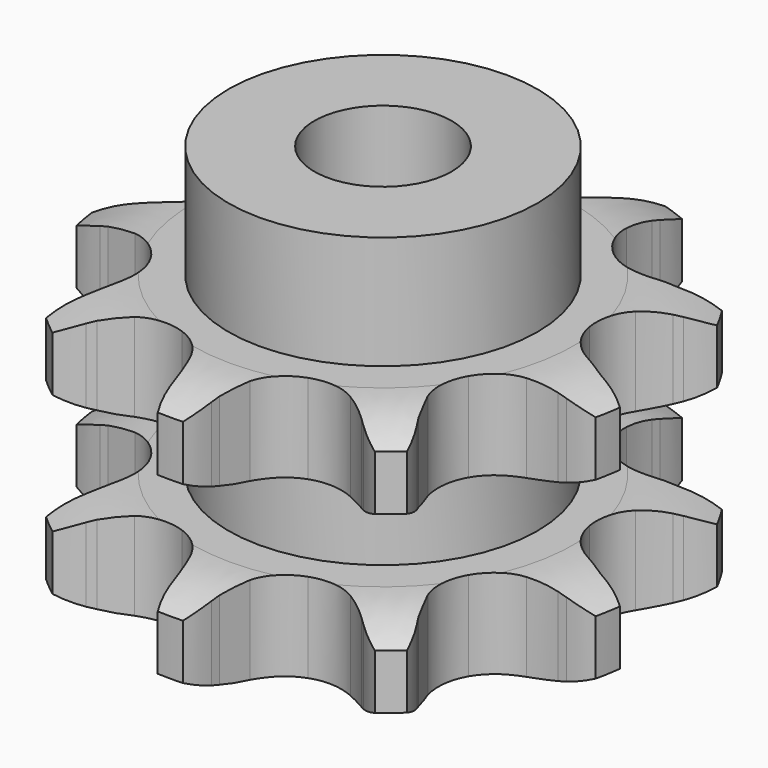
from build123d import *

# Parameters (mm, degrees)
PAD_DEPTH         = 15.4
SKETCH001_R       = 9
PAD001_DEPTH      = 22
SKETCH002_R       = 4
POCKET_DEPTH      = 0.001
POCKET_DEPTH_BACK = -22.001


with BuildPart() as part:
    # Sprocket → Pad (new body)
    with BuildSketch(Plane.XY):
        with BuildLine():
            ThreePointArc((-5.677804, 15.599638), (-4.530468, 14.728486), (-3.653036, 13.585944))
            Line((-3.653036, 13.585944), (-3.408939, 13.161256))
            ThreePointArc((-3.408939, 13.161256), (-2.946106, 12.443997), (-2.412125, 11.778009))
            ThreePointArc((-2.412125, 11.778009), (-1.321918, 10.978636), (0, 10.695643))
            ThreePointArc((0, 10.695643), (1.321918, 10.978636), (2.412125, 11.778009))
            ThreePointArc((2.412125, 11.778009), (2.946106, 12.443997), (3.408939, 13.161256))
            Line((3.408939, 13.161256), (3.653036, 13.585944))
            ThreePointArc((3.653036, 13.585944), (4.530468, 14.728486), (5.677804, 15.599638))
            ThreePointArc((5.677804, 15.599638), (5.996748, 14.194803), (5.934489, 12.755564))
            Line((5.934489, 12.755564), (5.848494, 12.273331))
            ThreePointArc((5.848494, 12.273331), (5.741999, 11.426375), (5.722963, 10.572963))
            ThreePointArc((5.722963, 10.572963), (6.044283, 9.259835), (6.875027, 8.193338))
            ThreePointArc((6.875027, 8.193338), (8.069579, 7.560411), (9.418554, 7.471994))
            Line((9.418554, 7.471994), (11.071291, 7.890883))
            ThreePointArc((11.071291, 7.890883), (11.300037, 7.978487), (11.531265, 8.059311))
            ThreePointArc((11.531265, 8.059311), (12.937828, 8.370546), (14.376704, 8.300394))
            ThreePointArc((14.376704, 8.300394), (13.718019, 7.019214), (12.7452, 5.956713))
            Line((12.7452, 5.956713), (12.369351, 5.642578))
            ThreePointArc((12.369351, 5.642578), (11.743359, 5.062226), (11.180214, 4.42071))
            ThreePointArc((11.180214, 4.42071), (10.582297, 3.208255), (10.533153, 1.857279))
            ThreePointArc((10.533153, 1.857279), (11.041394, 0.604585), (12.017936, -0.33025))
            Line((12.017936, -0.33025), (13.553263, -1.071722))
            ThreePointArc((13.553263, -1.071722), (13.784803, -1.151648), (14.013886, -1.238364))
            ThreePointArc((14.013886, -1.238364), (15.291434, -1.904065), (16.348585, -2.882697))
            ThreePointArc((16.348585, -2.882697), (15.020477, -3.440743), (13.592291, -3.62935))
            Line((13.592291, -3.62935), (13.102452, -3.6284))
            ThreePointArc((13.102452, -3.6284), (12.249871, -3.670596), (11.406118, -3.800043))
            ThreePointArc((11.406118, -3.800043), (10.168736, -4.344504), (9.262699, -5.347822))
            ThreePointArc((9.262699, -5.347822), (8.846819, -6.634132), (8.993993, -7.977966))
            Line((8.993993, -7.977966), (9.693513, -9.532856))
            ThreePointArc((9.693513, -9.532856), (9.819507, -9.742914), (9.939255, -9.956594))
            ThreePointArc((9.939255, -9.956594), (10.490009, -11.287743), (10.670781, -12.716941))
            ThreePointArc((10.670781, -12.716941), (9.294686, -12.290738), (8.079398, -11.5172))
            Line((8.079398, -11.5172), (7.70477, -11.201609))
            ThreePointArc((7.70477, -11.201609), (7.024532, -10.685904), (6.294973, -10.242713))
            ThreePointArc((6.294973, -10.242713), (4.997111, -9.864421), (3.658126, -10.050617))
            ThreePointArc((3.658126, -10.050617), (2.512718, -10.768666), (1.76166, -11.892704))
            Line((1.76166, -11.892704), (1.29806, -13.533461))
            ThreePointArc((1.29806, -13.533461), (1.259555, -13.775362), (1.213936, -14.016024))
            ThreePointArc((1.213936, -14.016024), (0.780192, -15.38976), (0, -16.600788))
            ThreePointArc((0, -16.600788), (-0.780192, -15.38976), (-1.213936, -14.016024))
            Line((-1.213936, -14.016024), (-1.29806, -13.533461))
            ThreePointArc((-1.29806, -13.533461), (-1.487663, -12.70116), (-1.76166, -11.892704))
            ThreePointArc((-1.76166, -11.892704), (-2.512718, -10.768666), (-3.658126, -10.050617))
            ThreePointArc((-3.658126, -10.050617), (-4.997111, -9.864421), (-6.294973, -10.242713))
            Line((-6.294973, -10.242713), (-7.70477, -11.201609))
            ThreePointArc((-7.70477, -11.201609), (-7.889758, -11.362166), (-8.079398, -11.5172))
            ThreePointArc((-8.079398, -11.5172), (-9.294686, -12.290738), (-10.670781, -12.716941))
            ThreePointArc((-10.670781, -12.716941), (-10.490009, -11.287743), (-9.939255, -9.956594))
            Line((-9.939255, -9.956594), (-9.693513, -9.532856))
            ThreePointArc((-9.693513, -9.532856), (-9.303764, -8.773401), (-8.993993, -7.977966))
            ThreePointArc((-8.993993, -7.977966), (-8.846819, -6.634132), (-9.262699, -5.347822))
            ThreePointArc((-9.262699, -5.347822), (-10.168736, -4.344504), (-11.406118, -3.800043))
            Line((-11.406118, -3.800043), (-13.102452, -3.6284))
            ThreePointArc((-13.102452, -3.6284), (-13.347364, -3.632486), (-13.592291, -3.62935))
            ThreePointArc((-13.592291, -3.62935), (-15.020477, -3.440743), (-16.348585, -2.882697))
            ThreePointArc((-16.348585, -2.882697), (-15.291434, -1.904065), (-14.013886, -1.238364))
            Line((-14.013886, -1.238364), (-13.553263, -1.071722))
            ThreePointArc((-13.553263, -1.071722), (-12.766531, -0.740471), (-12.017936, -0.33025))
            ThreePointArc((-12.017936, -0.33025), (-11.041394, 0.604585), (-10.533153, 1.857279))
            ThreePointArc((-10.533153, 1.857279), (-10.582297, 3.208255), (-11.180214, 4.42071))
            Line((-11.180214, 4.42071), (-12.369351, 5.642578))
            ThreePointArc((-12.369351, 5.642578), (-12.559591, 5.796875), (-12.7452, 5.956713))
            ThreePointArc((-12.7452, 5.956713), (-13.718019, 7.019214), (-14.376704, 8.300394))
            ThreePointArc((-14.376704, 8.300394), (-12.937828, 8.370546), (-11.531265, 8.059311))
            Line((-11.531265, 8.059311), (-11.071291, 7.890883))
            ThreePointArc((-11.071291, 7.890883), (-10.255695, 7.638934), (-9.418554, 7.471994))
            ThreePointArc((-9.418554, 7.471994), (-8.069579, 7.560411), (-6.875027, 8.193338))
            ThreePointArc((-6.875027, 8.193338), (-6.044283, 9.259835), (-5.722963, 10.572963))
            Line((-5.722963, 10.572963), (-5.848494, 12.273331))
            ThreePointArc((-5.848494, 12.273331), (-5.895046, 12.513813), (-5.934489, 12.755564))
            ThreePointArc((-5.934489, 12.755564), (-5.996748, 14.194803), (-5.677804, 15.599638))
        make_face()
    extrude(amount=PAD_DEPTH)

    # Sketch → Groove (revolve, cut)
    with BuildSketch(Plane.XZ):
        with BuildLine():
            ThreePointArc((11.141101, 0), (13.377169, 0.253206), (15.5, 1))
            Line((15.5, 1), (15.5, 4.2))
            ThreePointArc((15.5, 4.2), (13.377169, 4.946794), (11.141101, 5.2))
            Line((9, 5.2), (11.141101, 5.2))
            Line((9, 10.2), (9, 5.2))
            Line((11.141101, 10.2), (9, 10.2))
            ThreePointArc((11.141101, 10.2), (13.377169, 10.453206), (15.5, 11.2))
            Line((15.5, 11.2), (15.5, 14.4))
            ThreePointArc((15.5, 14.4), (13.377169, 15.146794), (11.141101, 15.4))
            Line((11.141101, 15.4), (21.141101, 15.4))
            Line((21.141101, 15.4), (21.141101, 0))
            Line((11.141101, 0), (21.141101, 0))
        make_face()
    revolve(axis=Axis((0, 0, 0), (0, 0, 1)), mode=Mode.SUBTRACT)

    # Sketch001 → Pad001 (join)
    with BuildSketch(Plane.XY):
        Circle(SKETCH001_R)
    extrude(amount=PAD001_DEPTH)

    # Sketch002 → Pocket (cut, two sides)
    with BuildSketch(Plane.XY) as pocket_sk:
        Circle(SKETCH002_R)
    extrude(amount=-POCKET_DEPTH, mode=Mode.SUBTRACT)
    extrude(pocket_sk.sketch, amount=-POCKET_DEPTH_BACK, mode=Mode.SUBTRACT)


solid = part.part
